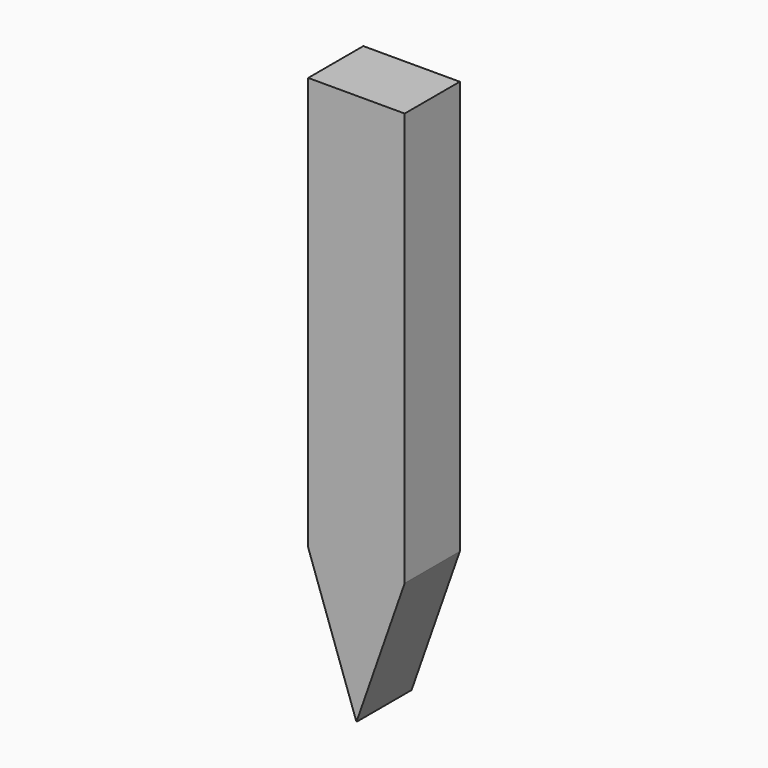
from build123d import *

# Parameters (mm, degrees)
F0_W     = 88.9
F0_H     = 38.1000016469
F1_DEPTH = 508
F3_DEPTH = 25.4
F4_DEPTH = 38.1010016469


with BuildPart() as f1:
    # F0 (on Top) → F1 (new body)
    with BuildSketch(Plane.XY):
        with Locations((-261.9274258614, -47.6780477911)):
            Rectangle(F0_W, F0_H)
    extrude(amount=F1_DEPTH)

    # F2 (on face) → F3 (join)
    with BuildSketch(Plane.XZ.offset(66.7280486146)):
        Polygon((-306.3774258614, 508), (-306.3774258614, 127), (-261.9274258614, 0), (-217.4774258614, 127), (-217.4774258614, 508), align=None)
    extrude(amount=F3_DEPTH)

    # F4 (cut, through all): faces of the model
    f4_faces = [f1.faces().sort_by_distance(p)[0] for p in [
        (-291.5607591947, -66.7280486146, 42.3333333333),
        (-232.294092528, -66.7280486146, 42.3333333333),
    ]]
    extrude(f4_faces, amount=-F4_DEPTH, mode=Mode.SUBTRACT)


solid = f1.part
